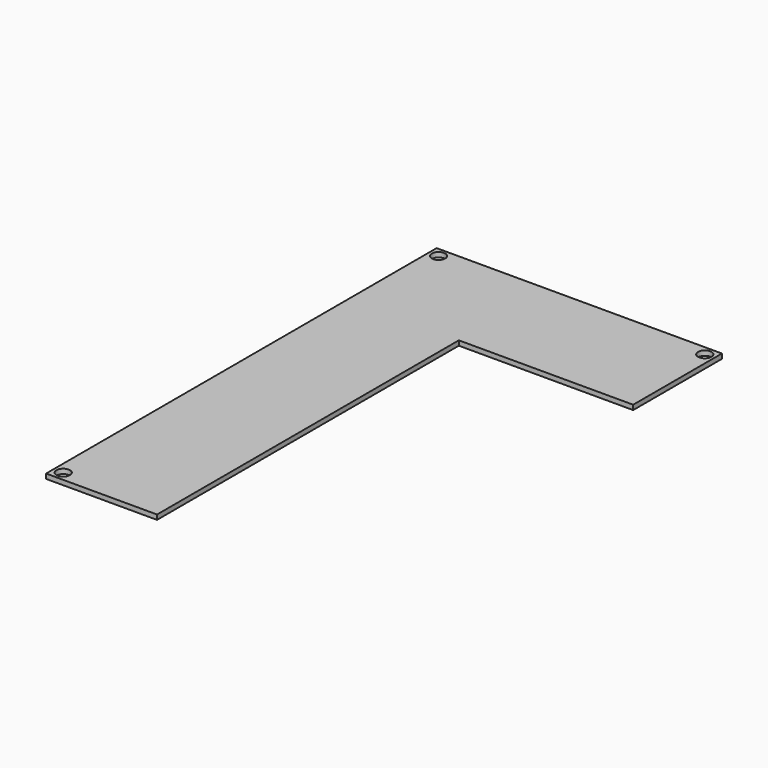
from build123d import *

# Parameters (mm, degrees)
F0_R     = 42.5
F0_W     = 700
F0_H     = 2380
F1_DEPTH = 30


with BuildPart() as f1:
    # F0 (on Top) → F1 (new body)
    with BuildSketch(Plane.XY):
        Polygon((900, -350), (900, 350), (-900, 350), (-900, -350), (-200, -350), align=None)
        with Locations((-840, 290)):
            Circle(F0_R, mode=Mode.SUBTRACT)
        with Locations((840, 290)):
            Circle(F0_R, mode=Mode.SUBTRACT)
        with Locations((-550, -1540)):
            Rectangle(F0_W, F0_H)
        with Locations((-840, -2670)):
            Circle(F0_R, mode=Mode.SUBTRACT)
    extrude(amount=F1_DEPTH)


solid = f1.part
